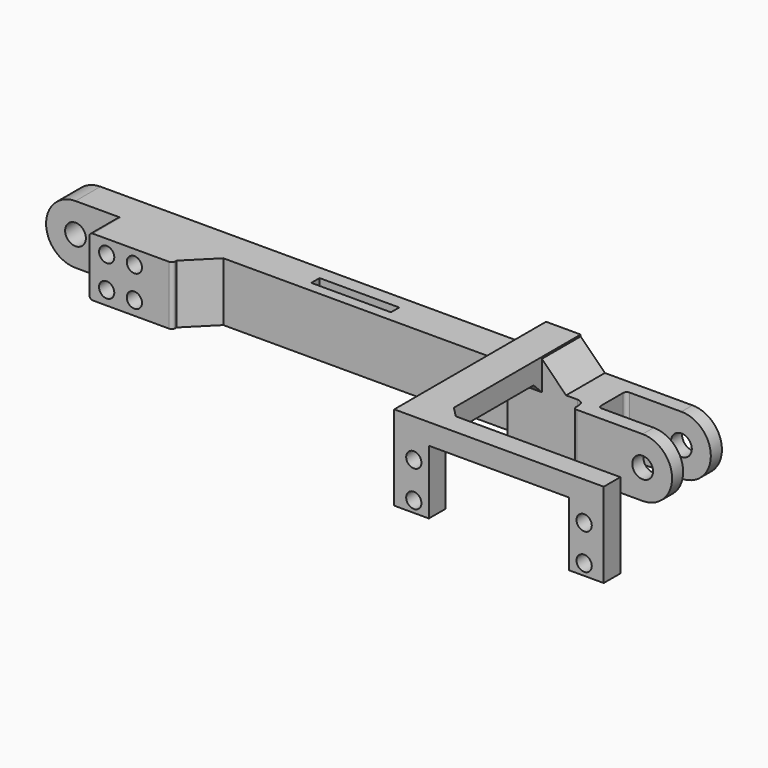
from build123d import *

# Parameters (mm, degrees)
PAD067_DEPTH           = 10
PAD068_DEPTH           = 6
PAD072_DEPTH           = 14
CYLINDER038_R          = 2.2
CYLINDER038_DEPTH      = 26
CYLINDER038_ROLL_ANGLE = -90
ARRAY012_X_COUNT       = 2
ARRAY012_X_PITCH       = 8
ARRAY012_Z_COUNT       = 2
ARRAY012_Z_PITCH       = 9
BOX047_W               = 24
BOX047_H               = 10
BOX047_DEPTH           = 17
SKETCH056_R            = 3
PAD057_DEPTH           = 9
BOX048_W               = 35
BOX048_H               = 15
BOX048_DEPTH           = 20
BOX044_W               = 23
BOX044_H               = 3
BOX044_DEPTH           = 20
SKETCH049_R            = 3
PAD050_DEPTH           = 4
SKETCH050_R            = 3
PAD051_DEPTH           = 4
BOX043_W               = 20
BOX043_H               = 17
BOX043_DEPTH           = 10
FILLET017_R            = 1
FILLET017_ROLL_ANGLE   = 90
FILLET018_1_R          = 2
FILLET018_2_R          = 1
BOX042_W               = 167
BOX042_H               = 10
BOX042_DEPTH           = 17
CYLINDER037_R          = 2.2
CYLINDER037_DEPTH      = 18
CYLINDER037_ROLL_ANGLE = -90
ARRAY011_X_COUNT       = 2
ARRAY011_X_PITCH       = 49.2
ARRAY011_Z_COUNT       = 2
ARRAY011_Z_PITCH       = 10.3
PAD053_DEPTH           = 6
PAD052_DEPTH           = 10
CHAMFER007_SIZE        = 3
FILLET023_R            = 1
CHAMFER009_SIZE        = 7.5
PAD066_DEPTH           = 10


with BuildPart() as obj1:
    # Sketch067 → Pad067 (new body)
    with BuildSketch(Plane(origin=(142.7, 11, 18.5), x_dir=(0, 0, -1), z_dir=(1, 0, 0))):
        Polygon((0, 0), (0, 3), (3, 0), align=None)
    extrude(amount=PAD067_DEPTH)


with BuildPart() as obj2:
    # Sketch068 → Pad068 (new body)
    with BuildSketch(Plane(origin=(152.7, 45.8, 18.5), x_dir=(0, -1, 0), z_dir=(0, 0, 1))):
        Polygon((0, 0), (0, 3), (3, 0), align=None)
    extrude(amount=PAD068_DEPTH)


with BuildPart() as obj3:
    # Sketch065 → Pad072 (new body)
    with BuildSketch(Plane(origin=(152.7, 11, 17), x_dir=(1, 0, 0), z_dir=(0, -1, 0))):
        Polygon((0, 0), (0, 7), (7, 0), align=None)
    extrude(amount=PAD072_DEPTH)


with BuildPart() as obj4:
    # Cylinder038 → Cylinder038 (new body)
    with BuildSketch(Plane.XY):
        Circle(CYLINDER038_R)
    extrude(amount=CYLINDER038_DEPTH)


with BuildPart() as obj4_1:
    # Cylinder038 roll: moved
    add(obj4.part.rotate(Axis((0, 0, 0), (1, 0, 0)), CYLINDER038_ROLL_ANGLE))


with BuildPart() as obj4_2:
    # Cylinder038 placement: moved
    add(obj4_1.part.moved(Location((202, 0, 4))))

    # Array012 X: obj4_2


with BuildPart() as obj4_3:
    add(obj4_2.part)
    with Locations(*[(i * ARRAY012_X_PITCH, 0, 0) for i in range(1, ARRAY012_X_COUNT)]):
        add(obj4_2.part)

    # Array012 Z: obj4_2


with BuildPart() as obj4_4:
    add(obj4_3.part)
    with Locations(*[(0, 0, i * ARRAY012_Z_PITCH) for i in range(1, ARRAY012_Z_COUNT)]):
        add(obj4_3.part)


with BuildPart() as obj4_5:
    # Array012 placement: moved
    add(obj4_4.part.moved(Location((-171, -5, 0))))


with BuildPart() as obj5:
    # Box047 → Box047 (new body)
    with BuildSketch(Plane(origin=(26, 6, 0), x_dir=(1, 0, 0), z_dir=(0, 0, 1))):
        with Locations((12, 5)):
            Rectangle(BOX047_W, BOX047_H)
    extrude(amount=BOX047_DEPTH)


with BuildPart() as obj6:
    # Sketch056 → Pad057 (new body)
    with BuildSketch(Plane(origin=(50, 6, 0), x_dir=(1, 0, 0), z_dir=(0, -1, 0))):
        with BuildLine():
            Line((0, 17), (-36, 17))
            ThreePointArc((-36, 17), (-44.500015, 8.5), (-36, 0))
            Line((-36, 0), (0, 0))
            Line((0, 0), (0, 17))
        make_face()
        with Locations((-36.000015, 8.5)):
            Circle(SKETCH056_R, mode=Mode.SUBTRACT)
    extrude(amount=PAD057_DEPTH)


with BuildPart() as obj7:
    # Box048 → Box048 (new body)
    with BuildSketch(Plane(origin=(-2, -5, 0), x_dir=(1, 0, 0), z_dir=(0, 0, 1))):
        with Locations((17.5, 7.5)):
            Rectangle(BOX048_W, BOX048_H)
    extrude(amount=BOX048_DEPTH)


with BuildPart() as obj8:
    # Box044 → Box044 (new body)
    with BuildSketch(Plane(origin=(80.5, 1, 0), x_dir=(1, 0, 0), z_dir=(0, 0, 1))):
        with Locations((11.5, 1.5)):
            Rectangle(BOX044_W, BOX044_H)
    extrude(amount=BOX044_DEPTH)


with BuildPart() as obj9:
    # Sketch049 → Pad050 (new body)
    with BuildSketch(Plane.XY):
        with BuildLine():
            Line((0, 17), (20, 17))
            ThreePointArc((20, 0), (28.500019, 8.5), (20, 17))
            Line((20, 0), (0, 0))
            Line((0, 0), (0, 17))
        make_face()
        with Locations((20.000019, 8.5)):
            Circle(SKETCH049_R, mode=Mode.SUBTRACT)
    extrude(amount=PAD050_DEPTH)


with BuildPart() as obj10:
    # Sketch050 → Pad051 (new body)
    with BuildSketch(Plane.XY.offset(14)):
        with BuildLine():
            Line((0, 17), (20, 17))
            ThreePointArc((20, 0), (28.500019, 8.5), (20, 17))
            Line((20, 0), (0, 0))
            Line((0, 0), (0, 17))
        make_face()
        with Locations((20.000019, 8.5)):
            Circle(SKETCH050_R, mode=Mode.SUBTRACT)
    extrude(amount=PAD051_DEPTH)


with BuildPart() as obj11:
    # Box043 → Box043 (new body)
    with BuildSketch(Plane(origin=(-16, 0, 4), x_dir=(1, 0, 0), z_dir=(0, 0, 1))):
        with Locations((10, 8.5)):
            Rectangle(BOX043_W, BOX043_H)
    extrude(amount=BOX043_DEPTH)

    # Fusion009003048: union obj9, obj10
    add(obj9.part)
    add(obj10.part)

    # Fillet017
    fillet017_edges = [obj11.edges().sort_by_distance(p)[0] for p in [
        (0, 8.5, 18),
        (-16, 0, 9),
        (-16, 17, 9),
        (0, 8.5, 0),
    ]]
    fillet(fillet017_edges, radius=FILLET017_R)


with BuildPart() as obj11_1:
    # Fillet017 roll: moved
    add(obj11.part.rotate(Axis((0, 0, 0), (1, 0, 0)), FILLET017_ROLL_ANGLE))


with BuildPart() as obj11_2:
    # Fillet017 placement: moved
    add(obj11_1.part.moved(Location((16, 15, 0))))

    # Fillet018 1
    fillet018_1_edges = [obj11_2.edges().sort_by_distance(p)[0] for p in [
        (16, 1, 8.5),
        (16, 11, 8.5),
    ]]
    fillet(fillet018_1_edges, radius=FILLET018_1_R)

    # Fillet018 2
    fillet018_2_edges = [obj11_2.edges().sort_by_distance(p)[0] for p in [
        (20, 1, 8.5),
        (20, 11, 8.5),
    ]]
    fillet(fillet018_2_edges, radius=FILLET018_2_R)


with BuildPart() as obj11_3:
    # Fillet018 placement: moved
    add(obj11_2.part.moved(Location((149, 0, 0))))


with BuildPart() as obj12:
    # Box042 → Box042 (new body)
    with BuildSketch(Plane(origin=(0, -3, 0), x_dir=(1, 0, 0), z_dir=(0, 0, 1))):
        with Locations((83.5, 5)):
            Rectangle(BOX042_W, BOX042_H)
    extrude(amount=BOX042_DEPTH)

    # Fusion009003049: union obj11
    add(obj11_3.part)

    # Cut038: cut obj8
    add(obj8.part, mode=Mode.SUBTRACT)


with BuildPart() as obj13:
    # Cylinder037 → Cylinder037 (new body)
    with BuildSketch(Plane.XY):
        Circle(CYLINDER037_R)
    extrude(amount=CYLINDER037_DEPTH)


with BuildPart() as obj13_1:
    # Cylinder037 roll: moved
    add(obj13.part.rotate(Axis((0, 0, 0), (1, 0, 0)), CYLINDER037_ROLL_ANGLE))


with BuildPart() as obj13_2:
    # Cylinder037 placement: moved
    add(obj13_1.part.moved(Location((150.075, 41, 13.5))))

    # Array011 X: obj13_2


with BuildPart() as obj13_3:
    add(obj13_2.part)
    with Locations(*[(i * ARRAY011_X_PITCH, 0, 0) for i in range(1, ARRAY011_X_COUNT)]):
        add(obj13_2.part)

    # Array011 Z: obj13_2


with BuildPart() as obj13_4:
    add(obj13_3.part)
    with Locations(*[(0, 0, -i * ARRAY011_Z_PITCH) for i in range(1, ARRAY011_Z_COUNT)]):
        add(obj13_3.part)


with BuildPart() as obj14:
    # Sketch052 → Pad053 (new body)
    with BuildSketch(Plane(origin=(10, 54.8, 0), x_dir=(1, 0, 0), z_dir=(0, -1, 0))):
        Polygon((0, 18.5), (0, 24.5), (50.5, 24.5), (50.5, 0), (40.5, 0), (40.5, 18.5), align=None)
    extrude(amount=PAD053_DEPTH)


with BuildPart() as obj15:
    # Sketch051 → Pad052 (new body)
    with BuildSketch(Plane.YZ):
        Polygon((14, 0), (0, 0), (0, 24.5), (54.8, 24.5), (54.8, 0), (48.8, 0), (48.8, 18.5), (14, 18.5), align=None)
    extrude(amount=PAD052_DEPTH)

    # Fusion009003050: union obj14
    add(obj14.part)


with BuildPart() as obj15_1:
    # Fusion009003050 placement: moved
    add(obj15.part.moved(Location((144.425, -3, 0))))

    # Cut037: cut obj13
    add(obj13_4.part, mode=Mode.SUBTRACT)


with BuildPart() as obj15_2:
    # Cut037 placement: moved
    add(obj15_1.part.moved(Location((-1.725, 0, 0))))

    # Fusion009003051: union obj12
    add(obj12.part)

    # Chamfer007
    chamfer007_edges = [obj15_2.edges().sort_by_distance(p)[0] for p in [
        (142.7, 7, 8.5),
    ]]
    chamfer(chamfer007_edges, length=CHAMFER007_SIZE)

    # Cut039: cut obj7
    add(obj7.part, mode=Mode.SUBTRACT)

    # Fusion009003053: union obj6
    add(obj6.part)

    # Fusion009003054: union obj5
    add(obj5.part)

    # Cut040: cut obj4
    add(obj4_5.part, mode=Mode.SUBTRACT)

    # Fillet023
    fillet023_edges = [obj15_2.edges().sort_by_distance(p)[0] for p in [
        (50, 16, 8.5),
        (26, 11, 0),
        (26, 11, 17),
    ]]
    fillet(fillet023_edges, radius=FILLET023_R)

    # Chamfer009
    chamfer009_edges = [obj15_2.edges().sort_by_distance(p)[0] for p in [
        (50, 7, 8.5),
    ]]
    chamfer(chamfer009_edges, length=CHAMFER009_SIZE)


with BuildPart() as femur_izquierdo_full001:
    # Sketch066 → Pad066 (new body)
    with BuildSketch(Plane(origin=(142.7, -3, 17), x_dir=(-1, 0, 0), z_dir=(0, 1, 0))):
        Polygon((0, 0), (0, 7), (7, 0), align=None)
    extrude(amount=PAD066_DEPTH)

    # Fusion009003066: union obj1, obj2, obj3, obj15
    add(obj1.part)
    add(obj2.part)
    add(obj3.part)
    add(obj15_2.part)


with BuildPart() as femur_derecha_full:
    # Part__Mirroring012: instance of Femur_izquierdo_full001
    add(femur_izquierdo_full001.part.mirror(Plane(origin=(0, 0, 0), x_dir=(1, 0, 0), z_dir=(0, 1, 0))))


with BuildPart() as femur_derecha_full_1:
    # Part__Mirroring012 placement: moved
    add(femur_derecha_full.part.moved(Location((0, -178, 0))))


solid = femur_derecha_full_1.part
